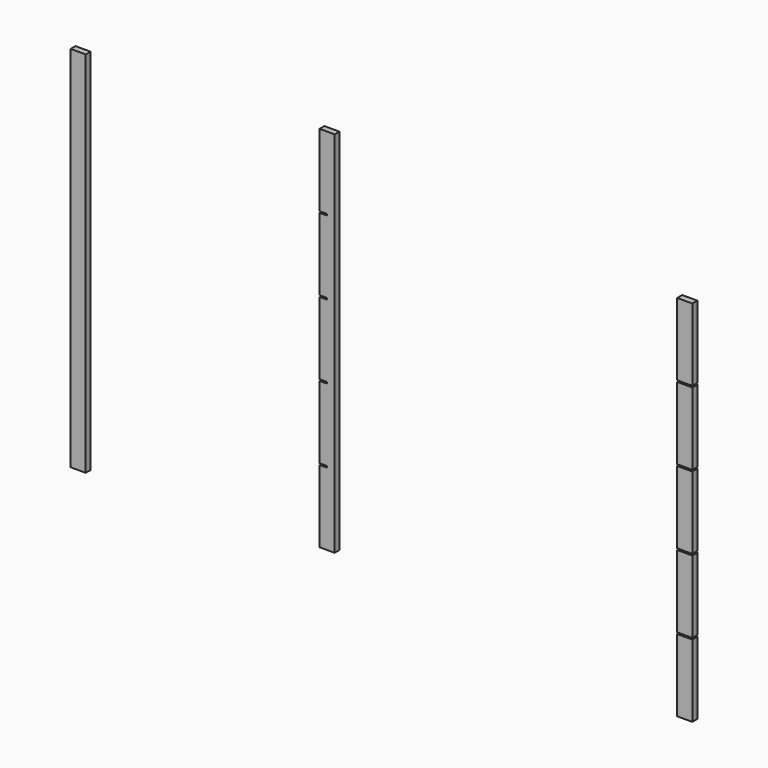
from build123d import *

# Parameters (mm, degrees)
F0_W     = 60
F0_H     = 1464
F1_DEPTH = 24
F2_W     = 60
F2_H     = 288
F3_DEPTH = 25
F5_DEPTH = 24


with BuildPart() as f1:
    # F0 (on Front) → F1 (new body)
    with BuildSketch(Plane.XZ):
        with Locations((-331.775755, 20.97973)):
            Rectangle(F0_W, F0_H)
    extrude(amount=F1_DEPTH)


with BuildPart() as f3:
    # F2 (on Front) → F3 (new body)
    with BuildSketch(Plane.XZ):
        with Locations((2079.800396, 522.253342)):
            Rectangle(F2_W, F2_H)
        with Locations((2079.800396, 228.253342)):
            Rectangle(F2_W, F2_H)
        with Locations((2079.800396, -65.746658)):
            Rectangle(F2_W, F2_H)
        with Locations((2079.800396, -359.746658)):
            Rectangle(F2_W, F2_H)
        with Locations((2079.800396, -653.746658)):
            Rectangle(F2_W, F2_H)
    extrude(amount=F3_DEPTH)


with BuildPart() as f5:
    # F4 (on Front) → F5 (new body)
    with BuildSketch(Plane.XZ):
        Polygon((627.510638, 794.934957), (627.510638, 506.934957), (657.510638, 506.934957), (657.510638, 500.934957), (627.510638, 500.934957), (627.510638, 212.934957), (657.510638, 212.934957), (657.510638, 206.934957), (627.510638, 206.934957), (627.510638, -81.065043), (657.510638, -81.065043), (657.510638, -87.065043), (627.510638, -87.065043), (627.510638, -375.065043), (657.510638, -375.065043), (657.510638, -381.065043), (627.510638, -381.065043), (627.510638, -669.065043), (687.510638, -669.065043), (687.510638, 794.934957), align=None)
    extrude(amount=F5_DEPTH)


solid = Compound([f1.part, f3.part, f5.part])
